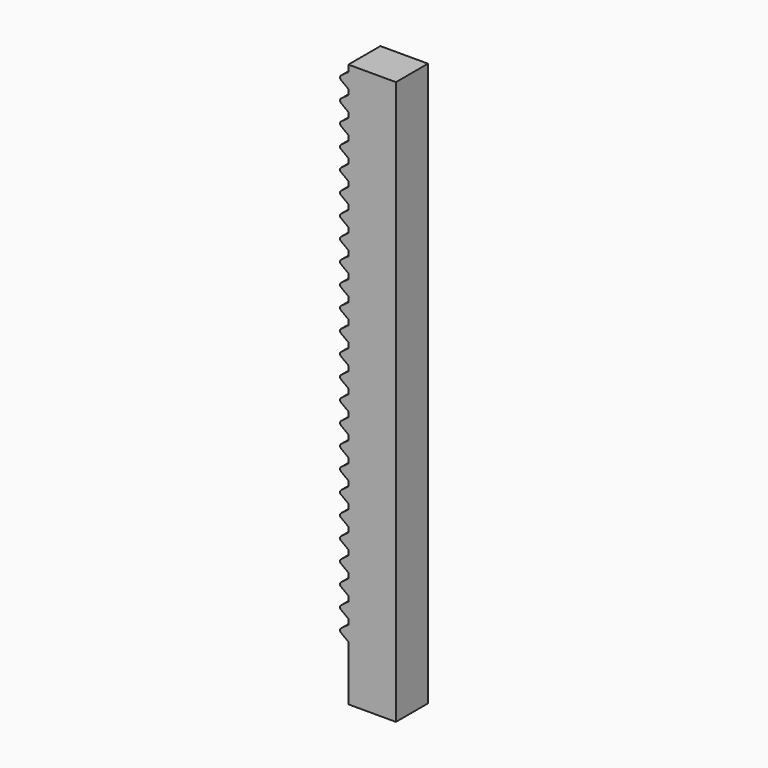
from build123d import *

# Parameters (mm, degrees)
F0_W          = 19
F0_H          = 16
F1_DEPTH      = 200
F1_DEPTH_BACK = 25
F3_DEPTH      = 8


with BuildPart() as f1:
    # F0 (on Top) → F1 (new body, two sides)
    with BuildSketch(Plane.XY) as f1_sk:
        with Locations((4.5, 0)):
            Rectangle(F0_W, F0_H)
    extrude(amount=F1_DEPTH)
    extrude(f1_sk.sketch, amount=-F1_DEPTH_BACK)

    # F2 (on Front) → F3 (join, symmetric)
    with BuildSketch(Plane.XZ):
        with BuildLine():
            Line((-7.933333, 193.6), (-5, 191.4))
            Line((-5, 191.4), (-5, 197.4))
            Line((-5, 197.4), (-7.933333, 195.2))
            ThreePointArc((-7.933333, 195.2), (-8.333333, 194.4), (-7.933333, 193.6))
        make_face()
        with BuildLine():
            Line((-7.933333, 185.5), (-5, 183.3))
            Line((-5, 183.3), (-5, 189.3))
            Line((-5, 189.3), (-7.933333, 187.1))
            ThreePointArc((-7.933333, 187.1), (-8.333333, 186.3), (-7.933333, 185.5))
        make_face()
        with BuildLine():
            Line((-7.933333, 177.4), (-5, 175.2))
            Line((-5, 175.2), (-5, 181.2))
            Line((-5, 181.2), (-7.933333, 179))
            ThreePointArc((-7.933333, 179), (-8.333333, 178.2), (-7.933333, 177.4))
        make_face()
        with BuildLine():
            Line((-7.933333, 169.3), (-5, 167.1))
            Line((-5, 167.1), (-5, 173.1))
            Line((-5, 173.1), (-7.933333, 170.9))
            ThreePointArc((-7.933333, 170.9), (-8.333333, 170.1), (-7.933333, 169.3))
        make_face()
        with BuildLine():
            Line((-7.933333, 161.2), (-5, 159))
            Line((-5, 159), (-5, 165))
            Line((-5, 165), (-7.933333, 162.8))
            ThreePointArc((-7.933333, 162.8), (-8.333333, 162), (-7.933333, 161.2))
        make_face()
        with BuildLine():
            Line((-7.933333, 153.1), (-5, 150.9))
            Line((-5, 150.9), (-5, 156.9))
            Line((-5, 156.9), (-7.933333, 154.7))
            ThreePointArc((-7.933333, 154.7), (-8.333333, 153.9), (-7.933333, 153.1))
        make_face()
        with BuildLine():
            Line((-7.933333, 145), (-5, 142.8))
            Line((-5, 142.8), (-5, 148.8))
            Line((-5, 148.8), (-7.933333, 146.6))
            ThreePointArc((-7.933333, 146.6), (-8.333333, 145.8), (-7.933333, 145))
        make_face()
        with BuildLine():
            Line((-7.933333, 136.9), (-5, 134.7))
            Line((-5, 134.7), (-5, 140.7))
            Line((-5, 140.7), (-7.933333, 138.5))
            ThreePointArc((-7.933333, 138.5), (-8.333333, 137.7), (-7.933333, 136.9))
        make_face()
        with BuildLine():
            Line((-7.933333, 128.8), (-5, 126.6))
            Line((-5, 126.6), (-5, 132.6))
            Line((-5, 132.6), (-7.933333, 130.4))
            ThreePointArc((-7.933333, 130.4), (-8.333333, 129.6), (-7.933333, 128.8))
        make_face()
        with BuildLine():
            Line((-7.933333, 120.7), (-5, 118.5))
            Line((-5, 118.5), (-5, 124.5))
            Line((-5, 124.5), (-7.933333, 122.3))
            ThreePointArc((-7.933333, 122.3), (-8.333333, 121.5), (-7.933333, 120.7))
        make_face()
        with BuildLine():
            Line((-7.933333, 112.6), (-5, 110.4))
            Line((-5, 110.4), (-5, 116.4))
            Line((-5, 116.4), (-7.933333, 114.2))
            ThreePointArc((-7.933333, 114.2), (-8.333333, 113.4), (-7.933333, 112.6))
        make_face()
        with BuildLine():
            Line((-7.933333, 104.5), (-5, 102.3))
            Line((-5, 102.3), (-5, 108.3))
            Line((-5, 108.3), (-7.933333, 106.1))
            ThreePointArc((-7.933333, 106.1), (-8.333333, 105.3), (-7.933333, 104.5))
        make_face()
        with BuildLine():
            Line((-7.933333, 96.4), (-5, 94.2))
            Line((-5, 94.2), (-5, 100.2))
            Line((-5, 100.2), (-7.933333, 98))
            ThreePointArc((-7.933333, 98), (-8.333333, 97.2), (-7.933333, 96.4))
        make_face()
        with BuildLine():
            Line((-7.933333, 88.3), (-5, 86.1))
            Line((-5, 86.1), (-5, 92.1))
            Line((-5, 92.1), (-7.933333, 89.9))
            ThreePointArc((-7.933333, 89.9), (-8.333333, 89.1), (-7.933333, 88.3))
        make_face()
        with BuildLine():
            Line((-7.933333, 80.2), (-5, 78))
            Line((-5, 78), (-5, 84))
            Line((-5, 84), (-7.933333, 81.8))
            ThreePointArc((-7.933333, 81.8), (-8.333333, 81), (-7.933333, 80.2))
        make_face()
        with BuildLine():
            Line((-7.933333, 72.1), (-5, 69.9))
            Line((-5, 69.9), (-5, 75.9))
            Line((-5, 75.9), (-7.933333, 73.7))
            ThreePointArc((-7.933333, 73.7), (-8.333333, 72.9), (-7.933333, 72.1))
        make_face()
        with BuildLine():
            Line((-7.933333, 64), (-5, 61.8))
            Line((-5, 61.8), (-5, 67.8))
            Line((-5, 67.8), (-7.933333, 65.6))
            ThreePointArc((-7.933333, 65.6), (-8.333333, 64.8), (-7.933333, 64))
        make_face()
        with BuildLine():
            Line((-7.933333, 55.9), (-5, 53.7))
            Line((-5, 53.7), (-5, 59.7))
            Line((-5, 59.7), (-7.933333, 57.5))
            ThreePointArc((-7.933333, 57.5), (-8.333333, 56.7), (-7.933333, 55.9))
        make_face()
        with BuildLine():
            Line((-7.933333, 47.8), (-5, 45.6))
            Line((-5, 45.6), (-5, 51.6))
            Line((-5, 51.6), (-7.933333, 49.4))
            ThreePointArc((-7.933333, 49.4), (-8.333333, 48.6), (-7.933333, 47.8))
        make_face()
        with BuildLine():
            Line((-7.933333, 39.7), (-5, 37.5))
            Line((-5, 37.5), (-5, 43.5))
            Line((-5, 43.5), (-7.933333, 41.3))
            ThreePointArc((-7.933333, 41.3), (-8.333333, 40.5), (-7.933333, 39.7))
        make_face()
        with BuildLine():
            Line((-7.933333, 31.6), (-5, 29.4))
            Line((-5, 29.4), (-5, 35.4))
            Line((-5, 35.4), (-7.933333, 33.2))
            ThreePointArc((-7.933333, 33.2), (-8.333333, 32.4), (-7.933333, 31.6))
        make_face()
        with BuildLine():
            Line((-7.933333, 23.5), (-5, 21.3))
            Line((-5, 21.3), (-5, 27.3))
            Line((-5, 27.3), (-7.933333, 25.1))
            ThreePointArc((-7.933333, 25.1), (-8.333333, 24.3), (-7.933333, 23.5))
        make_face()
        with BuildLine():
            Line((-7.933333, 15.4), (-5, 13.2))
            Line((-5, 13.2), (-5, 19.2))
            Line((-5, 19.2), (-7.933333, 17))
            ThreePointArc((-7.933333, 17), (-8.333333, 16.2), (-7.933333, 15.4))
        make_face()
        with BuildLine():
            Line((-7.933333, 7.3), (-5, 5.1))
            Line((-5, 5.1), (-5, 11.1))
            Line((-5, 11.1), (-7.933333, 8.9))
            ThreePointArc((-7.933333, 8.9), (-8.333333, 8.1), (-7.933333, 7.3))
        make_face()
        with BuildLine():
            Line((-5, 3), (-7.933333, 0.8))
            ThreePointArc((-7.933333, 0.8), (-8.333333, 0), (-7.933333, -0.8))
            Line((-7.933333, -0.8), (-5, -3))
            Line((-5, -3), (-5, 3))
        make_face()
    extrude(amount=F3_DEPTH, both=True)


solid = f1.part
